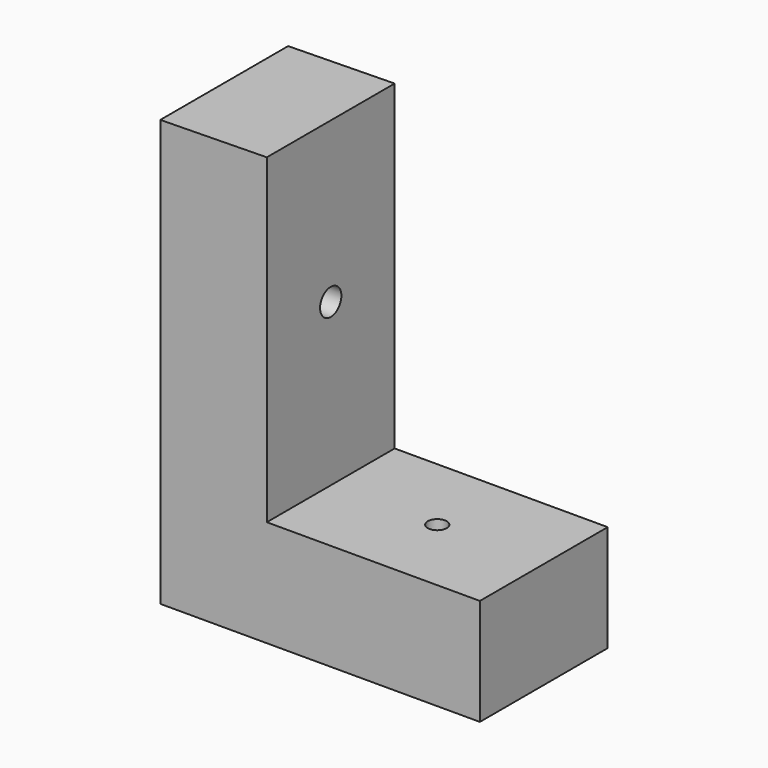
from build123d import *

# Parameters (mm, degrees)
F1_DEPTH = 76.2
F2_R     = 6.35
F3_DEPTH = 200.038046
F4_R     = 4.5085
F5_DEPTH = 416.492134


with BuildPart() as f1:
    # F0 (on Front) → F1 (new body)
    with BuildSketch(Plane.XZ):
        Polygon((-31.073093, 120.862948), (-81.866795, 120.063045), (-81.866795, -83.136955), (70.533205, -83.136955), (70.533205, -32.336955), (-31.073093, -32.336955), align=None)
    extrude(amount=F1_DEPTH)

    # F2 (on Right) → F3 (cut)
    with BuildSketch(Plane.YZ):
        with Locations((-38.1, 44.662948)):
            Circle(F2_R)
    extrude(amount=-F3_DEPTH, mode=Mode.SUBTRACT)

    # F4 (on Top) → F5 (cut)
    with BuildSketch(Plane.XY):
        with Locations((19.733205, -38.1)):
            Circle(F4_R)
    extrude(amount=-F5_DEPTH, mode=Mode.SUBTRACT)


solid = f1.part
